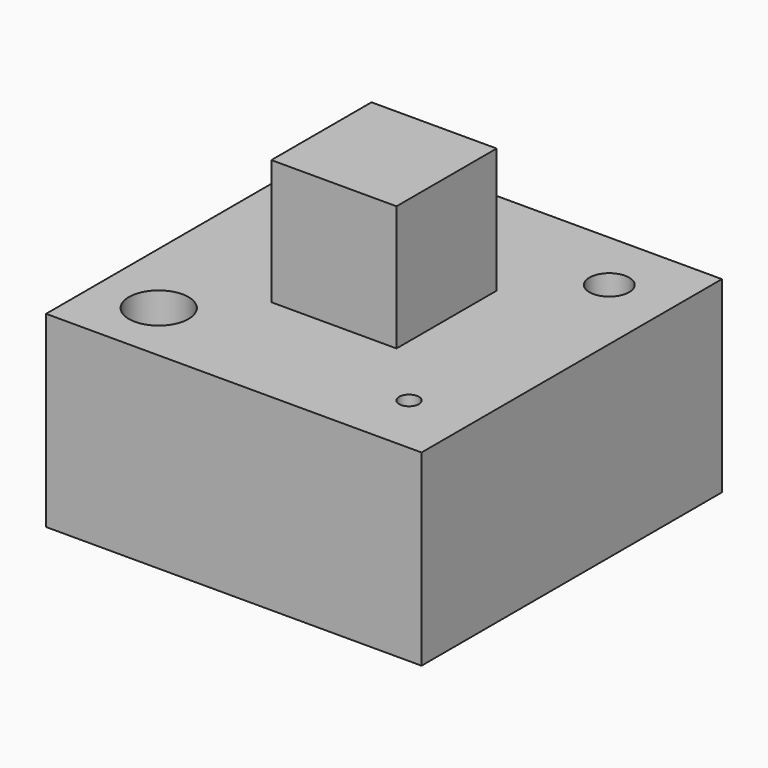
from build123d import *

# Parameters (mm, degrees)
F0_W     = 30
F0_H     = 30
F0_R     = 2.38125
F0_R_2   = 0.79375
F0_R_3   = 3.175
F0_W_2   = 10
F0_H_2   = 10
F0_R_4   = 1.5875
F1_DEPTH = 15
F2_DEPTH = 25


with BuildPart() as f1:
    # F0 (on Top) → F1 (new body)
    with BuildSketch(Plane.XY):
        Rectangle(F0_W, F0_H)
        with Locations((-10, -10)):
            Circle(F0_R, mode=Mode.SUBTRACT)
        with Locations((10, -10)):
            Circle(F0_R_2, mode=Mode.SUBTRACT)
        with Locations((-10, 10)):
            Circle(F0_R_3, mode=Mode.SUBTRACT)
        Rectangle(F0_W_2, F0_H_2, mode=Mode.SUBTRACT)
        with Locations((10, 10)):
            Circle(F0_R_4, mode=Mode.SUBTRACT)
        Rectangle(F0_W_2, F0_H_2)
    extrude(amount=F1_DEPTH)

    # F0 (on Top) → F2 (join)
    with BuildSketch(Plane.XY):
        Rectangle(F0_W_2, F0_H_2)
    extrude(amount=F2_DEPTH)


solid = f1.part
